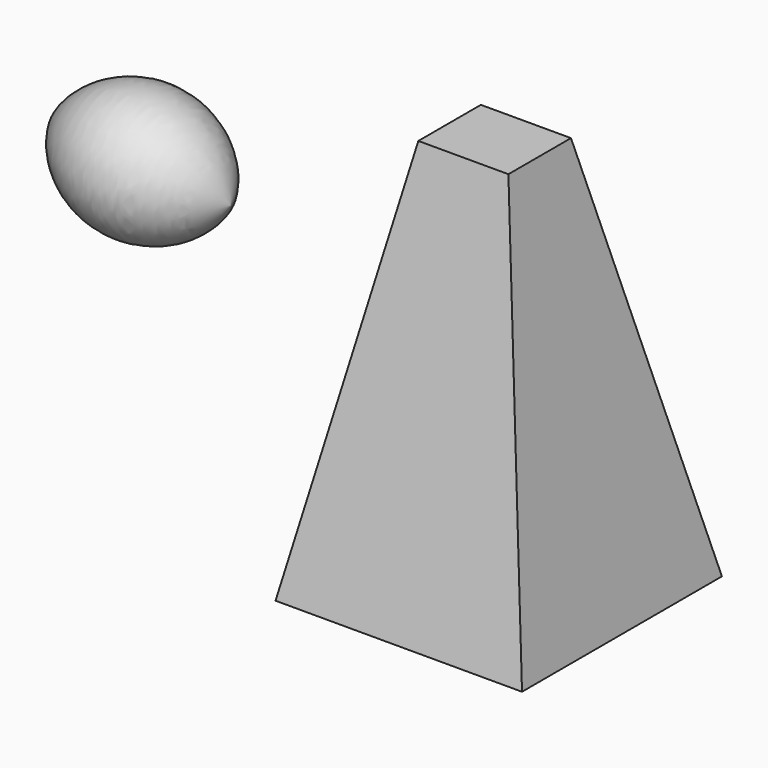
from build123d import *

# Parameters (mm, degrees)
F2_W       = 27.6884203777
F2_H       = 28.0703343451
F3_DEPTH   = 44.958
F4_W       = 10.1205930114
F4_H       = 8.7839141488
F3_FACE1_W = 27.6884203777
F3_FACE1_H = 28.0703343451


with BuildPart() as f1:
    # F0 (on Front) → F1 (revolve)
    with BuildSketch(Plane.XZ):
        with BuildLine():
            Line((-23.2964679599, 32.4622914195), (-3.4371835645, 30.1708355546))
            ThreePointArc((-3.4371835645, 30.1708355546), (-12.5395070847, 38.4866587765), (-23.2964679599, 32.4622914195))
        make_face()
    revolve(axis=Axis((-13.3668257622, 0, 31.3165634871), (0.993408936, 0, -0.1146241067)))


with BuildPart() as f3:
    # F2 (on Top) → F3 (new body)
    with BuildSketch(Plane.XY):
        with Locations((24.1557625122, 3.1507518142)):
            Rectangle(F2_W, F2_H)
    extrude(amount=F3_DEPTH)

    # F4 (on face) → F5 section 0
    with BuildSketch(Plane.XY.offset(44.958)):
        with Locations((24.53767322, 2.1005012095)):
            Rectangle(F4_W, F4_H)
    # F3_face1 (on face) → F5 section 1
    with BuildSketch(Plane(origin=(24.1557625122, 3.1507518142, 0), x_dir=(1, 0, 0), z_dir=(0, 0, -1))):
        Rectangle(F3_FACE1_W, F3_FACE1_H)
    loft(mode=Mode.INTERSECT)


solid = Compound([f1.part, f3.part])
